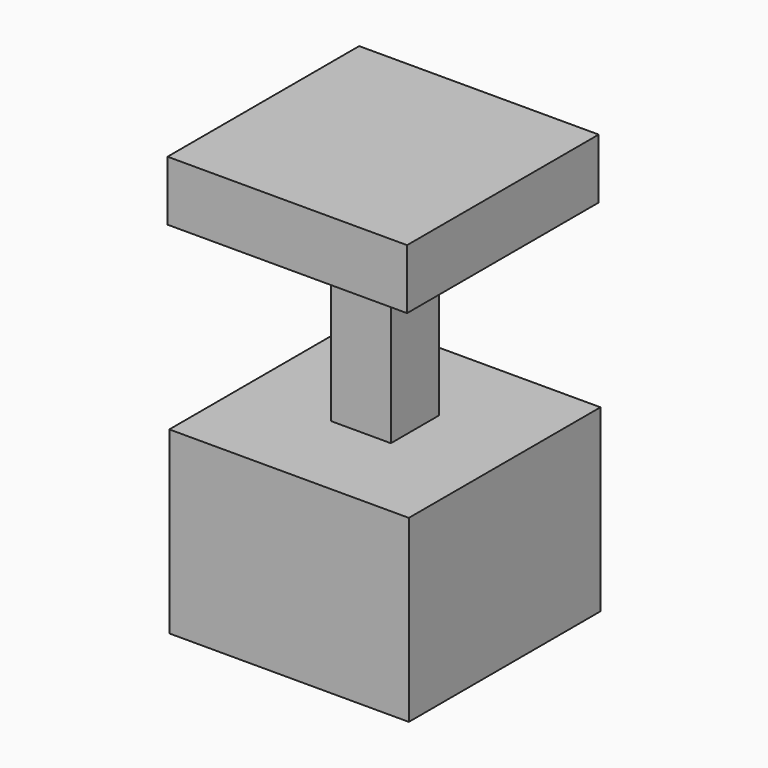
from build123d import *

# Parameters (mm, degrees)
F0_W     = 32
F0_H     = 24
F1_DEPTH = 32
F2_W     = 8
F2_H     = 8
F3_DEPTH = 24
F4_W     = 32
F4_H     = 32
F5_DEPTH = 8


with BuildPart() as f1:
    # F0 (on Front) → F1 (new body)
    with BuildSketch(Plane.XZ):
        Rectangle(F0_W, F0_H)
    extrude(amount=F1_DEPTH)

    # F2 (on face) → F3 (join)
    with BuildSketch(Plane.XY.offset(12)):
        with Locations((0, -16)):
            Rectangle(F2_W, F2_H)
    extrude(amount=F3_DEPTH)

    # F4 (on face) → F5 (join)
    with BuildSketch(Plane.XY.offset(36)):
        with Locations((-0.237114, -16)):
            Rectangle(F4_W, F4_H)
    extrude(amount=F5_DEPTH)


solid = f1.part
